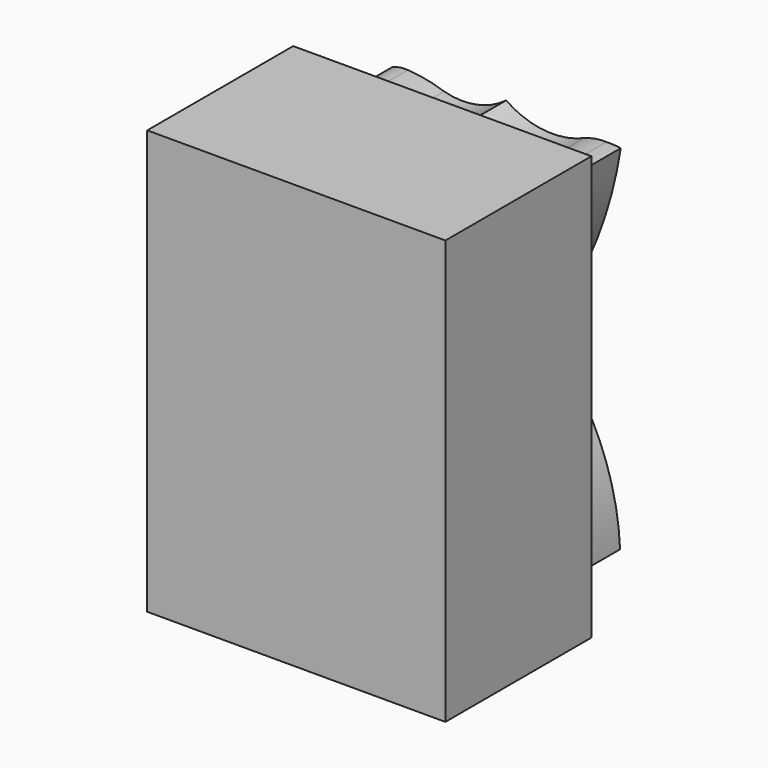
from build123d import *

# Parameters (mm, degrees)
F1_DEPTH = 2
F0_W     = 8.1694817636
F0_H     = 11.6130132228
F2_DEPTH = 5


with BuildPart() as f1:
    # F0 (on Front) → F1 (new body)
    with BuildSketch(Plane.XZ):
        with BuildLine():
            ThreePointArc((2.0745592192, 4.7939633951), (0.9761382847, 4.6235844423), (-0.0671644666, 5.0070905127))
            ThreePointArc((-0.0671644666, 5.0070905127), (-0.8784360137, 4.6405956483), (-1.7681780737, 4.6695624478))
            ThreePointArc((-1.7681780737, 4.6695624478), (-2.2574396576, 4.800493813), (-2.7601739857, 4.8619601876))
            ThreePointArc((-2.7601739857, 4.8619601876), (-2.9819736355, 4.8545860582), (-3.1940550543, 4.7892336734))
            ThreePointArc((-3.1940550543, 4.7892336734), (-2.6531015818, 2.5867346288), (-1.5586973168, 0.6003026501))
            ThreePointArc((-1.5586973168, 0.6003026501), (-0.899975173, -0.0976882802), (-0.1406859956, -0.6847028853))
            ThreePointArc((-0.1406859956, -0.6847028853), (0.8584014623, -1.565082943), (1.606091857, -2.6669921353))
            ThreePointArc((1.606091857, -2.6669921353), (0.7204240657, -3.0032988166), (-0.0832898513, -3.5048499703))
            ThreePointArc((-0.0832898513, -3.5048499703), (-0.8674701353, -2.9905919725), (-1.7476310022, -2.6669921353))
            ThreePointArc((-1.7476310022, -2.6669921353), (-1.1953566595, -1.8018699169), (-0.4894761951, -1.0567684658))
            ThreePointArc((-0.4894761951, -1.0567684658), (-0.947757472, -0.7472134604), (-1.3543482637, -0.3723402042))
            ThreePointArc((-1.3543482637, -0.3723402042), (-2.6058728778, -2.4526172564), (-3.1940550543, -4.8080170527))
            ThreePointArc((-3.1940550543, -4.8080170527), (-2.9891724287, -4.8447819272), (-2.7810176834, -4.8451670446))
            ThreePointArc((-2.7810176834, -4.8451670446), (-2.3475821057, -4.8081959008), (-1.9267009338, -4.698230885))
            ThreePointArc((-1.9267009338, -4.698230885), (-0.9589614264, -4.5871526974), (-0.0601788415, -4.9627162516))
            ThreePointArc((-0.0601788415, -4.9627162516), (0.8925619892, -4.5853815797), (1.9110714784, -4.698230885))
            ThreePointArc((1.9110714784, -4.698230885), (2.3244075631, -4.7966180699), (2.7465091553, -4.8451670446))
            ThreePointArc((2.7465091553, -4.8451670446), (2.9022453839, -4.8437183941), (3.0538411811, -4.8080170527))
            ThreePointArc((3.0538411811, -4.8080170527), (2.5977340123, -2.6141166836), (1.4581748983, -0.6847028853))
            ThreePointArc((1.4581748983, -0.6847028853), (0.844614848, 0.0255748016), (0.1025648307, 0.6003026501))
            ThreePointArc((0.1025648307, 0.6003026501), (-0.9344126252, 1.5540806838), (-1.7476310022, 2.7045982424))
            ThreePointArc((-1.7476310022, 2.7045982424), (-0.863666357, 3.0396657594), (-0.0601788415, 3.5377335735))
            ThreePointArc((-0.0601788415, 3.5377335735), (0.7365671742, 3.0483872393), (1.606091857, 2.7045982424))
            ThreePointArc((1.606091857, 2.7045982424), (1.0509505262, 1.8315226419), (0.3344639845, 1.0851380648))
            ThreePointArc((0.3344639845, 1.0851380648), (0.7904820411, 0.7652480559), (1.2069143122, 0.3952936677))
            ThreePointArc((1.2069143122, 0.3952936677), (1.6036378384, 0.865266534), (1.9314256497, 1.3856694568))
            ThreePointArc((1.9314256497, 1.3856694568), (2.6441028172, 3.083940128), (3.0726515688, 4.8751346973))
            ThreePointArc((3.0726515688, 4.8751346973), (2.8768268251, 4.8927984193), (2.680238802, 4.8963320442))
            ThreePointArc((2.680238802, 4.8963320442), (2.3723307757, 4.8751346973), (2.0745592192, 4.7939633951))
        make_face()
    extrude(amount=-F1_DEPTH)

    # F0 (on Front) + F1_face (on face) → F2 (join)
    with BuildSketch(Plane.XZ):
        with Locations((-0.2169868676, -0.0541191548)):
            Rectangle(F0_W, F0_H)
        with BuildLine():
            ThreePointArc((-1.7681780737, 4.6695624478), (-0.8784360137, 4.6405956483), (-0.0671644666, 5.0070905127))
            ThreePointArc((-0.0671644666, 5.0070905127), (0.9761382847, 4.6235844423), (2.0745592192, 4.7939633951))
            ThreePointArc((2.0745592192, 4.7939633951), (2.3723307757, 4.8751346973), (2.680238802, 4.8963320442))
            ThreePointArc((2.680238802, 4.8963320442), (2.8768268251, 4.8927984193), (3.0726515688, 4.8751346973))
            ThreePointArc((3.0726515688, 4.8751346973), (2.6441028172, 3.083940128), (1.9314256497, 1.3856694568))
            ThreePointArc((1.9314256497, 1.3856694568), (1.6036378384, 0.865266534), (1.2069143122, 0.3952936677))
            ThreePointArc((1.2069143122, 0.3952936677), (0.7904820411, 0.7652480559), (0.3344639845, 1.0851380648))
            ThreePointArc((0.3344639845, 1.0851380648), (1.0509505262, 1.8315226419), (1.606091857, 2.7045982424))
            ThreePointArc((1.606091857, 2.7045982424), (0.7365671742, 3.0483872393), (-0.0601788415, 3.5377335735))
            ThreePointArc((-0.0601788415, 3.5377335735), (-0.863666357, 3.0396657594), (-1.7476310022, 2.7045982424))
            ThreePointArc((-1.7476310022, 2.7045982424), (-0.9344126252, 1.5540806838), (0.1025648307, 0.6003026501))
            ThreePointArc((0.1025648307, 0.6003026501), (0.844614848, 0.0255748016), (1.4581748983, -0.6847028853))
            ThreePointArc((1.4581748983, -0.6847028853), (2.5977340123, -2.6141166836), (3.0538411811, -4.8080170527))
            ThreePointArc((3.0538411811, -4.8080170527), (2.9022453839, -4.8437183941), (2.7465091553, -4.8451670446))
            ThreePointArc((2.7465091553, -4.8451670446), (2.3244075631, -4.7966180699), (1.9110714784, -4.698230885))
            ThreePointArc((1.9110714784, -4.698230885), (0.8925619892, -4.5853815797), (-0.0601788415, -4.9627162516))
            ThreePointArc((-0.0601788415, -4.9627162516), (-0.9589614264, -4.5871526974), (-1.9267009338, -4.698230885))
            ThreePointArc((-1.9267009338, -4.698230885), (-2.3475821057, -4.8081959008), (-2.7810176834, -4.8451670446))
            ThreePointArc((-2.7810176834, -4.8451670446), (-2.9891724287, -4.8447819272), (-3.1940550543, -4.8080170527))
            ThreePointArc((-3.1940550543, -4.8080170527), (-2.6058728778, -2.4526172564), (-1.3543482637, -0.3723402042))
            ThreePointArc((-1.3543482637, -0.3723402042), (-0.947757472, -0.7472134604), (-0.4894761951, -1.0567684658))
            ThreePointArc((-0.4894761951, -1.0567684658), (-1.1953566595, -1.8018699169), (-1.7476310022, -2.6669921353))
            ThreePointArc((-1.7476310022, -2.6669921353), (-0.8674701353, -2.9905919725), (-0.0832898513, -3.5048499703))
            ThreePointArc((-0.0832898513, -3.5048499703), (0.7204240657, -3.0032988166), (1.606091857, -2.6669921353))
            ThreePointArc((1.606091857, -2.6669921353), (0.8584014623, -1.565082943), (-0.1406859956, -0.6847028853))
            ThreePointArc((-0.1406859956, -0.6847028853), (-0.899975173, -0.0976882802), (-1.5586973168, 0.6003026501))
            ThreePointArc((-1.5586973168, 0.6003026501), (-2.6531015818, 2.5867346288), (-3.1940550543, 4.7892336734))
            ThreePointArc((-3.1940550543, 4.7892336734), (-2.9819736355, 4.8545860582), (-2.7601739857, 4.8619601876))
            ThreePointArc((-2.7601739857, 4.8619601876), (-2.2574396576, 4.800493813), (-1.7681780737, 4.6695624478))
        make_face(mode=Mode.SUBTRACT)
        with BuildLine():
            ThreePointArc((2.0745592192, 4.7939633951), (0.9761382847, 4.6235844423), (-0.0671644666, 5.0070905127))
            ThreePointArc((-0.0671644666, 5.0070905127), (-0.8784360137, 4.6405956483), (-1.7681780737, 4.6695624478))
            ThreePointArc((-1.7681780737, 4.6695624478), (-2.2574396576, 4.800493813), (-2.7601739857, 4.8619601876))
            ThreePointArc((-2.7601739857, 4.8619601876), (-2.9819736355, 4.8545860582), (-3.1940550543, 4.7892336734))
            ThreePointArc((-3.1940550543, 4.7892336734), (-2.6531015818, 2.5867346288), (-1.5586973168, 0.6003026501))
            ThreePointArc((-1.5586973168, 0.6003026501), (-0.899975173, -0.0976882802), (-0.1406859956, -0.6847028853))
            ThreePointArc((-0.1406859956, -0.6847028853), (0.8584014623, -1.565082943), (1.606091857, -2.6669921353))
            ThreePointArc((1.606091857, -2.6669921353), (0.7204240657, -3.0032988166), (-0.0832898513, -3.5048499703))
            ThreePointArc((-0.0832898513, -3.5048499703), (-0.8674701353, -2.9905919725), (-1.7476310022, -2.6669921353))
            ThreePointArc((-1.7476310022, -2.6669921353), (-1.1953566595, -1.8018699169), (-0.4894761951, -1.0567684658))
            ThreePointArc((-0.4894761951, -1.0567684658), (-0.947757472, -0.7472134604), (-1.3543482637, -0.3723402042))
            ThreePointArc((-1.3543482637, -0.3723402042), (-2.6058728778, -2.4526172564), (-3.1940550543, -4.8080170527))
            ThreePointArc((-3.1940550543, -4.8080170527), (-2.9891724287, -4.8447819272), (-2.7810176834, -4.8451670446))
            ThreePointArc((-2.7810176834, -4.8451670446), (-2.3475821057, -4.8081959008), (-1.9267009338, -4.698230885))
            ThreePointArc((-1.9267009338, -4.698230885), (-0.9589614264, -4.5871526974), (-0.0601788415, -4.9627162516))
            ThreePointArc((-0.0601788415, -4.9627162516), (0.8925619892, -4.5853815797), (1.9110714784, -4.698230885))
            ThreePointArc((1.9110714784, -4.698230885), (2.3244075631, -4.7966180699), (2.7465091553, -4.8451670446))
            ThreePointArc((2.7465091553, -4.8451670446), (2.9022453839, -4.8437183941), (3.0538411811, -4.8080170527))
            ThreePointArc((3.0538411811, -4.8080170527), (2.5977340123, -2.6141166836), (1.4581748983, -0.6847028853))
            ThreePointArc((1.4581748983, -0.6847028853), (0.844614848, 0.0255748016), (0.1025648307, 0.6003026501))
            ThreePointArc((0.1025648307, 0.6003026501), (-0.9344126252, 1.5540806838), (-1.7476310022, 2.7045982424))
            ThreePointArc((-1.7476310022, 2.7045982424), (-0.863666357, 3.0396657594), (-0.0601788415, 3.5377335735))
            ThreePointArc((-0.0601788415, 3.5377335735), (0.7365671742, 3.0483872393), (1.606091857, 2.7045982424))
            ThreePointArc((1.606091857, 2.7045982424), (1.0509505262, 1.8315226419), (0.3344639845, 1.0851380648))
            ThreePointArc((0.3344639845, 1.0851380648), (0.7904820411, 0.7652480559), (1.2069143122, 0.3952936677))
            ThreePointArc((1.2069143122, 0.3952936677), (1.6036378384, 0.865266534), (1.9314256497, 1.3856694568))
            ThreePointArc((1.9314256497, 1.3856694568), (2.6441028172, 3.083940128), (3.0726515688, 4.8751346973))
            ThreePointArc((3.0726515688, 4.8751346973), (2.8768268251, 4.8927984193), (2.680238802, 4.8963320442))
            ThreePointArc((2.680238802, 4.8963320442), (2.3723307757, 4.8751346973), (2.0745592192, 4.7939633951))
        make_face()
    with BuildSketch(Plane(origin=(-0.0652834318, 2, -5.64561e-05), x_dir=(1, 0, 0), z_dir=(0, 1, 0))):
        with BuildLine():
            ThreePointArc((2.7455222338, -4.8963885003), (2.9421102569, -4.8928548754), (3.1379350006, -4.8751911534))
            ThreePointArc((3.1379350006, -4.8751911534), (2.7093862491, -3.0839965841), (1.9967090815, -1.3857259129))
            ThreePointArc((1.9967090815, -1.3857259129), (1.6689212703, -0.8653229901), (1.2721977441, -0.3953501238))
            ThreePointArc((1.2721977441, -0.3953501238), (0.8557654729, -0.765304512), (0.3997474163, -1.0851945209))
            ThreePointArc((0.3997474163, -1.0851945209), (1.1162339581, -1.831579098), (1.6713752888, -2.7046546985))
            ThreePointArc((1.6713752888, -2.7046546985), (0.801850606, -3.0484436954), (0.0051045903, -3.5377900296))
            ThreePointArc((0.0051045903, -3.5377900296), (-0.7983829252, -3.0397222155), (-1.6823475704, -2.7046546985))
            ThreePointArc((-1.6823475704, -2.7046546985), (-0.8691291933, -1.5541371399), (0.1678482626, -0.6003591062))
            ThreePointArc((0.1678482626, -0.6003591062), (0.9098982798, -0.0256312577), (1.5234583301, 0.6846464292))
            ThreePointArc((1.5234583301, 0.6846464292), (2.6630174442, 2.6140602274), (3.1191246129, 4.8079605966))
            ThreePointArc((3.1191246129, 4.8079605966), (2.9675288158, 4.843661938), (2.8117925871, 4.8451105884))
            ThreePointArc((2.8117925871, 4.8451105884), (2.3896909949, 4.7965616138), (1.9763549102, 4.6981744289))
            ThreePointArc((1.9763549102, 4.6981744289), (0.9578454211, 4.5853251236), (0.0051045903, 4.9626597955))
            ThreePointArc((0.0051045903, 4.9626597955), (-0.8936779945, 4.5870962413), (-1.861417502, 4.6981744289))
            ThreePointArc((-1.861417502, 4.6981744289), (-2.2822986738, 4.8081394447), (-2.7157342516, 4.8451105884))
            ThreePointArc((-2.7157342516, 4.8451105884), (-2.9238889969, 4.8447254711), (-3.1287716225, 4.8079605966))
            ThreePointArc((-3.1287716225, 4.8079605966), (-2.540589446, 2.4525608002), (-1.2890648319, 0.3722837481))
            ThreePointArc((-1.2890648319, 0.3722837481), (-0.8824740402, 0.7471570043), (-0.4241927632, 1.0567120097))
            ThreePointArc((-0.4241927632, 1.0567120097), (-1.1300732277, 1.8018134607), (-1.6823475704, 2.6669356792))
            ThreePointArc((-1.6823475704, 2.6669356792), (-0.8021867035, 2.9905355164), (-0.0180064195, 3.5047935142))
            ThreePointArc((-0.0180064195, 3.5047935142), (0.7857074976, 3.0032423605), (1.6713752888, 2.6669356792))
            ThreePointArc((1.6713752888, 2.6669356792), (0.9236848942, 1.5650264869), (-0.0754025637, 0.6846464292))
            ThreePointArc((-0.0754025637, 0.6846464292), (-0.8346917412, 0.0976318241), (-1.493413885, -0.6003591062))
            ThreePointArc((-1.493413885, -0.6003591062), (-2.5878181499, -2.5867910849), (-3.1287716225, -4.7892901295))
            ThreePointArc((-3.1287716225, -4.7892901295), (-2.9166902037, -4.8546425143), (-2.6948905539, -4.8620166437))
            ThreePointArc((-2.6948905539, -4.8620166437), (-2.1921562258, -4.8005502691), (-1.7028946418, -4.6696189039))
            ThreePointArc((-1.7028946418, -4.6696189039), (-0.8131525819, -4.6406521044), (-0.0018810348, -5.0071469688))
            ThreePointArc((-0.0018810348, -5.0071469688), (1.0414217165, -4.6236408985), (2.139842651, -4.7940198512))
            ThreePointArc((2.139842651, -4.7940198512), (2.4376142075, -4.8751911534), (2.7455222338, -4.8963885003))
        make_face()
    extrude(amount=F2_DEPTH, dir=(0, -1, 0))


solid = f1.part
